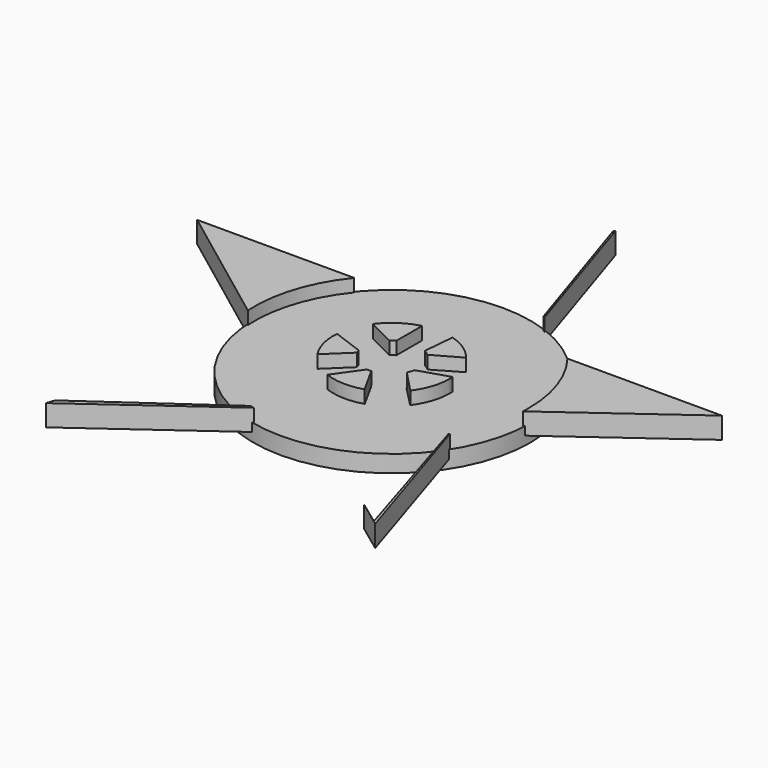
from build123d import *

# Parameters (mm, degrees)
F1_DEPTH = 5
F2_R     = 32.458501
F3_DEPTH = 2


with BuildPart() as f1:
    # F0 (on Top) → F1 (new body)
    with BuildSketch(Plane.XY):
        with BuildLine():
            Line((3.10027, 56.985963), (14.184289, 22.872859))
            ThreePointArc((14.184289, 22.872859), (14.385229, 22.794644), (14.585639, 22.715083))
            Line((14.585639, 22.715083), (3.302074, 57.602804))
            Line((3.302074, 57.602804), (3.10027, 56.985963))
        make_face()
        with BuildLine():
            Line((-22.333545, 13.13988), (-59.076229, 13.13988))
            Line((-59.076229, 13.13988), (-29.466608, -9.058542))
            ThreePointArc((-29.466608, -9.058542), (-27.983473, 2.710131), (-22.333545, 13.13988))
        make_face()
        with BuildLine():
            Line((64.188366, 12.55599), (28.04357, 12.55599))
            ThreePointArc((28.04357, 12.55599), (33.043313, 3.27472), (34.771854, -7.124874))
            ThreePointArc((34.771854, -7.124874), (34.760272, -7.987753), (34.725533, -8.85001))
            Line((34.725533, -8.85001), (64.188366, 12.55599))
        make_face()
        with BuildLine():
            ThreePointArc((-4.562304, -38.459828), (-5.008854, -38.354063), (-5.453848, -38.241935))
            Line((-5.453848, -38.241935), (-34.734426, -58.851985))
            Line((-34.734426, -58.851985), (-35.346847, -60.729187))
            Line((-35.346847, -60.729187), (-4.562304, -38.459828))
        make_face()
        with BuildLine():
            Line((40.628342, -59.785608), (35.178669, -55.826189))
            Line((35.178669, -55.826189), (41.467287, -60.468797))
            Line((41.467287, -60.468797), (29.897419, -24.143974))
            ThreePointArc((29.897419, -24.143974), (29.809847, -24.283517), (29.72156, -24.422608))
            Line((29.72156, -24.422608), (40.628342, -59.785608))
        make_face()
        with BuildLine():
            Line((7.103012, -2.271305), (13.35462, 1.262125))
            ThreePointArc((13.35462, 1.262125), (10.259769, 4.152801), (6.426639, 5.953144))
            Line((6.426639, 5.953144), (5.780248, -1.323318))
            ThreePointArc((5.780248, -1.323318), (6.470939, -1.756415), (7.103012, -2.271305))
        make_face()
        with BuildLine():
            Line((-0.772594, -1.460124), (-0.772594, 6.064693))
            ThreePointArc((-0.772594, 6.064693), (-4.949712, 4.195215), (-8.271792, 1.047668))
            Line((-8.271792, 1.047668), (-1.814396, -2.23326))
            ThreePointArc((-1.814396, -2.23326), (-1.312524, -1.821051), (-0.772594, -1.460124))
        make_face()
        with BuildLine():
            ThreePointArc((-10.957221, -6.094463), (-10.55571, -10.560883), (-8.725422, -14.654801))
            Line((-8.725422, -14.654801), (-3.477397, -9.655051))
            ThreePointArc((-3.477397, -9.655051), (-3.645752, -9.203146), (-3.780684, -8.740161))
            Line((-3.780684, -8.740161), (-10.957221, -6.094463))
        make_face()
        with BuildLine():
            ThreePointArc((-2.217927, -19.855101), (2.217602, -20.738599), (6.697889, -20.120942))
            Line((6.697889, -20.120942), (3.143205, -13.709167))
            ThreePointArc((3.143205, -13.709167), (2.62352, -13.729644), (2.103835, -13.709167))
            Line((2.103835, -13.709167), (-2.217927, -19.855101))
        make_face()
        with BuildLine():
            ThreePointArc((13.528529, -15.284472), (15.546794, -11.424554), (16.243295, -7.124874))
            ThreePointArc((16.243295, -7.124874), (16.235897, -6.676023), (16.21371, -6.227659))
            Line((16.21371, -6.227659), (9.082944, -8.502852))
            ThreePointArc((9.082944, -8.502852), (8.859995, -9.299583), (8.53919, -10.06219))
            Line((8.53919, -10.06219), (13.528529, -15.284472))
        make_face()
    extrude(amount=F1_DEPTH)


with BuildPart() as f3:
    # F2 (on Top) → F3 (new body, symmetric)
    with BuildSketch(Plane.XY):
        with Locations((2.687603, -7.105927)):
            Circle(F2_R)
        with BuildLine():
            ThreePointArc((6.338678, 5.964937), (10.228914, 4.177089), (13.3686, 1.266297))
            ThreePointArc((13.3686, 1.266297), (15.37035, -2.27625), (16.231985, -6.252961))
            ThreePointArc((16.231985, -6.252961), (16.252107, -6.679233), (16.258817, -7.105927))
            ThreePointArc((16.258817, -7.105927), (15.552974, -11.425657), (13.508868, -15.296047))
            ThreePointArc((13.508868, -15.296047), (10.481437, -18.216012), (6.705356, -20.068778))
            ThreePointArc((6.705356, -20.068778), (2.209859, -20.668729), (-2.232283, -19.753953))
            ThreePointArc((-2.232283, -19.753953), (-5.828615, -17.672471), (-8.626575, -14.600404))
            ThreePointArc((-8.626575, -14.600404), (-10.439636, -10.548807), (-10.848395, -6.128903))
            ThreePointArc((-10.848395, -6.128903), (-10.03855, -2.391815), (-8.21839, 0.971024))
            ThreePointArc((-8.21839, 0.971024), (-4.9534, 4.109816), (-0.83742, 5.999493))
            ThreePointArc((-0.83742, 5.999493), (2.752954, 6.465129), (6.338678, 5.964937))
        make_face(mode=Mode.SUBTRACT)
        with BuildLine():
            ThreePointArc((-3.986898, -8.671346), (-3.878955, -5.136204), (-2.023328, -2.125302))
            Line((-2.023328, -2.125302), (-8.21839, 0.971024))
            ThreePointArc((-8.21839, 0.971024), (-10.03855, -2.391815), (-10.848395, -6.128903))
            Line((-10.848395, -6.128903), (-3.986898, -8.671346))
        make_face()
        with BuildLine():
            ThreePointArc((-0.83742, -1.225986), (2.416553, -0.255669), (5.73702, -0.965849))
            Line((5.73702, -0.965849), (6.338678, 5.964937))
            ThreePointArc((6.338678, 5.964937), (2.752954, 6.465129), (-0.83742, 5.999493))
            Line((-0.83742, 5.999493), (-0.83742, -1.225986))
        make_face()
        with BuildLine():
            ThreePointArc((7.441161, -2.165969), (8.995855, -4.421628), (9.543222, -7.105927))
            ThreePointArc((9.543222, -7.105927), (9.510432, -7.775638), (9.412377, -8.438942))
            Line((9.412377, -8.438942), (16.231985, -6.252961))
            ThreePointArc((16.231985, -6.252961), (15.37035, -2.27625), (13.3686, 1.266297))
            Line((13.3686, 1.266297), (7.441161, -2.165969))
        make_face()
        with BuildLine():
            ThreePointArc((9.412377, -8.438942), (9.510432, -7.775638), (9.543222, -7.105927))
            ThreePointArc((9.543222, -7.105927), (8.995855, -4.421628), (7.441161, -2.165969))
            ThreePointArc((7.441161, -2.165969), (6.634966, -1.500766), (5.73702, -0.965849))
            ThreePointArc((5.73702, -0.965849), (2.416553, -0.255669), (-0.83742, -1.225986))
            ThreePointArc((-0.83742, -1.225986), (-1.454852, -1.643366), (-2.023328, -2.125302))
            ThreePointArc((-2.023328, -2.125302), (-3.878955, -5.136204), (-3.986898, -8.671346))
            ThreePointArc((-3.986898, -8.671346), (-3.828988, -9.23514), (-3.623547, -9.783404))
            ThreePointArc((-3.623547, -9.783404), (-1.415375, -12.598201), (1.910139, -13.917319))
            ThreePointArc((1.910139, -13.917319), (2.616997, -13.961182), (3.324609, -13.931887))
            ThreePointArc((3.324609, -13.931887), (6.458358, -12.831389), (8.707055, -10.387041))
            ThreePointArc((8.707055, -10.387041), (9.133733, -9.43979), (9.412377, -8.438942))
        make_face()
        with BuildLine():
            Line((13.508868, -15.296047), (8.707055, -10.387041))
            ThreePointArc((8.707055, -10.387041), (6.458358, -12.831389), (3.324609, -13.931887))
            Line((3.324609, -13.931887), (6.705356, -20.068778))
            ThreePointArc((6.705356, -20.068778), (10.481437, -18.216012), (13.508868, -15.296047))
        make_face()
        with BuildLine():
            Line((-2.232283, -19.753953), (1.910139, -13.917319))
            ThreePointArc((1.910139, -13.917319), (-1.415375, -12.598201), (-3.623547, -9.783404))
            Line((-3.623547, -9.783404), (-8.626575, -14.600404))
            ThreePointArc((-8.626575, -14.600404), (-5.828615, -17.672471), (-2.232283, -19.753953))
        make_face()
    extrude(amount=F3_DEPTH, both=True)


solid = Compound([f1.part, f3.part])
